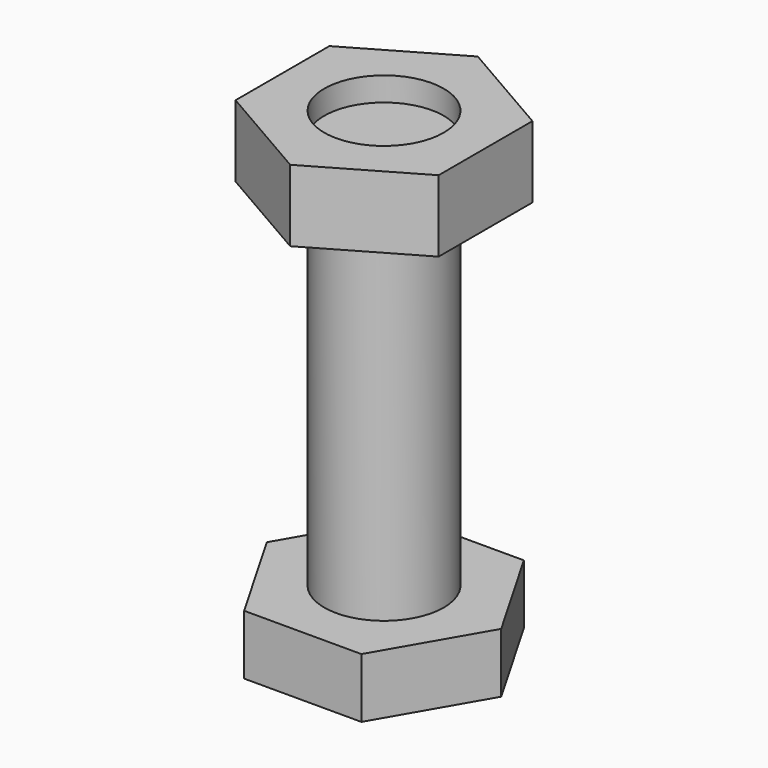
from build123d import *

# Parameters (mm, degrees)
F1_DEPTH = 5
F2_R     = 5
F3_DEPTH = 35
F4_R     = 5
F5_DEPTH = 6
F6_R     = 5
F7_DEPTH = 2


with BuildPart() as f1:
    # F0 (on Top) → F1 (new body)
    with BuildSketch(Plane.XY):
        Polygon((4.9074772881, 8.5), (-4.9074772881, 8.5), (-9.8149545762, 0), (-4.9074772881, -8.5), (4.9074772881, -8.5), (9.8149545762, 0), align=None)
    extrude(amount=F1_DEPTH)

    # F2 (on face) → F3 (join)
    with BuildSketch(Plane.XY.offset(5)):
        Circle(F2_R)
    extrude(amount=F3_DEPTH)

    # F4 (on face) → F5 (join)
    with BuildSketch(Plane.XY.offset(40)):
        Polygon((-8.5, 4.9074772881), (-8.5, -4.9074772881), (0, -9.8149545762), (8.5, -4.9074772881), (8.5, 4.9074772881), (0, 9.8149545762), align=None)
        Circle(F4_R, mode=Mode.SUBTRACT)
    extrude(amount=-F5_DEPTH)

    # F6 (on face) → F7 (cut)
    with BuildSketch(Plane.XY.offset(40)):
        Circle(F6_R)
    extrude(amount=-F7_DEPTH, mode=Mode.SUBTRACT)


solid = f1.part
